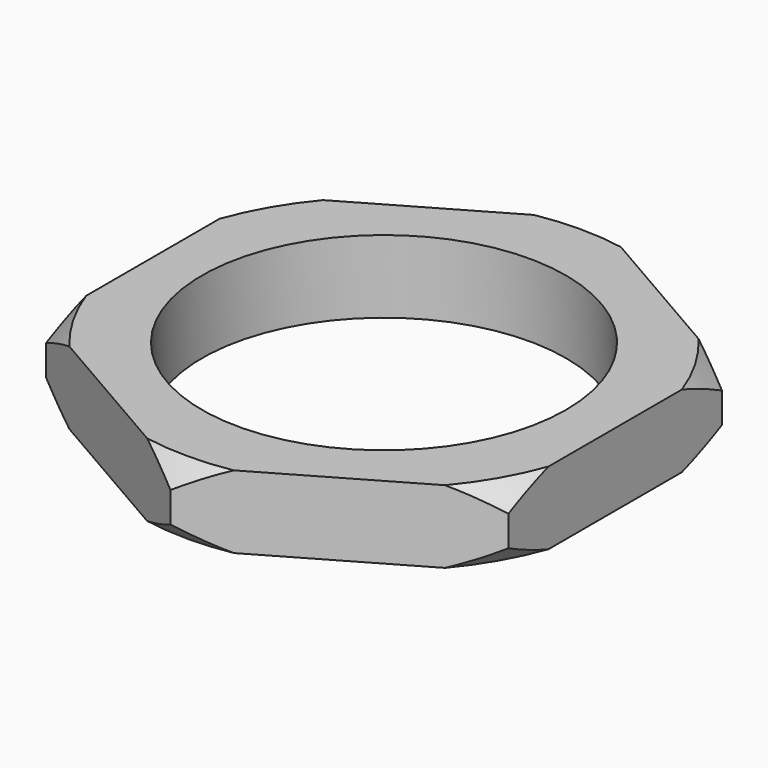
from build123d import *

# Parameters (mm, degrees)
SKETCH022_R          = 7.5
PAD001_DEPTH         = 2
CHAMFER003_SIZE      = 0.75
CHAMFER002_SIZE      = 0.75
SKETCH023_R          = 8.401279
POCKET017_DEPTH      = 2.001
POCKET017_DEPTH_BACK = 0.001
SKETCH021_R          = 5
POCKET018_DEPTH      = 0.001
POCKET018_DEPTH_BACK = 2.001


with BuildPart() as part:
    # Sketch022 → Pad001 (new body)
    with BuildSketch(Plane.XY):
        Circle(SKETCH022_R)
    extrude(amount=PAD001_DEPTH)

    # Chamfer003
    chamfer003_edges = [part.edges().sort_by_distance(p)[0] for p in [
        (-7.5, 0, 2),
    ]]
    chamfer(chamfer003_edges, length=CHAMFER003_SIZE)

    # Chamfer002
    chamfer002_edges = [part.edges().sort_by_distance(p)[0] for p in [
        (-7.5, 0, 0),
    ]]
    chamfer(chamfer002_edges, length=CHAMFER002_SIZE)

    # Sketch023 (on Face3 of Pad001) → Pocket017 (cut, two sides)
    with BuildSketch(Plane.XY.offset(2)) as pocket017_sk:
        Circle(SKETCH023_R)
        Polygon((0, 7.332348), (-6.35, 3.666174), (-6.35, -3.666174), (0, -7.332348), (6.35, -3.666174), (6.35, 3.666174), align=None, mode=Mode.SUBTRACT)
    extrude(amount=-POCKET017_DEPTH, mode=Mode.SUBTRACT)
    extrude(pocket017_sk.sketch, amount=POCKET017_DEPTH_BACK, mode=Mode.SUBTRACT)

    # Sketch021 → Pocket018 (cut, two sides)
    with BuildSketch(Plane.XY) as pocket018_sk:
        Circle(SKETCH021_R)
    extrude(amount=-POCKET018_DEPTH, mode=Mode.SUBTRACT)
    extrude(pocket018_sk.sketch, amount=POCKET018_DEPTH_BACK, mode=Mode.SUBTRACT)


solid = part.part
